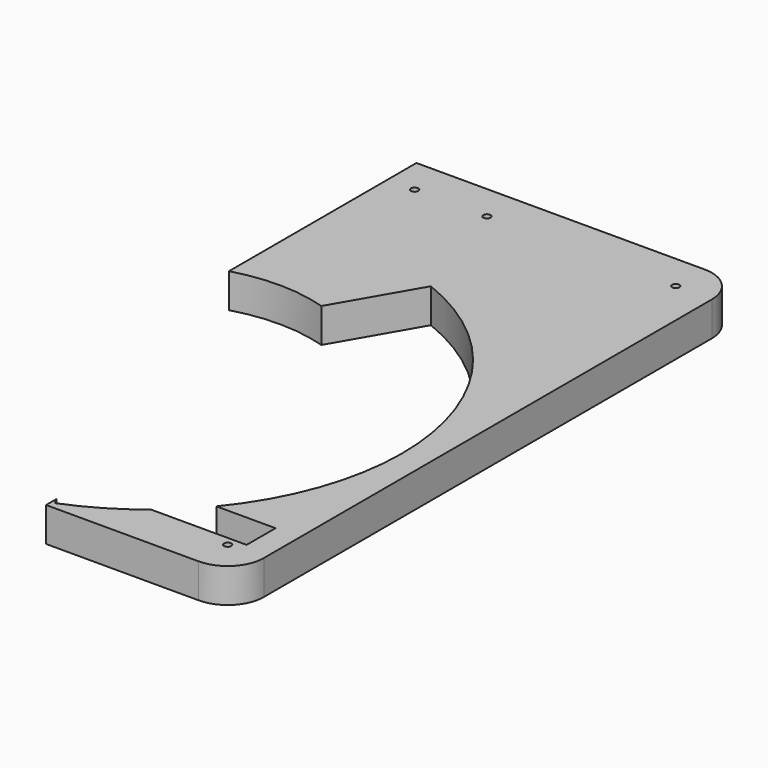
from build123d import *

# Parameters (mm, degrees)
PAD016_DEPTH    = 19
FILLET006_R     = 20
SKETCH023_R     = 2
POCKET014_DEPTH = 19.001
SKETCH026_R     = 2
POCKET016_DEPTH = 19.001
SKETCH047_W     = 56
SKETCH047_H     = 20
POCKET030_DEPTH = 19.001


with BuildPart() as part:
    # Sketch021 → Pad016 (new body)
    with BuildSketch(Plane.XY):
        with BuildLine():
            Line((200, 216.2), (200, 86.458082))
            ThreePointArc((251.554314, 85.993421), (225.811141, 89.996345), (200, 86.458082))
            Line((251.554314, 85.993421), (276.961524, 130))
            ThreePointArc((276.961524, -130), (365, 0), (276.961524, 130))
            Line((276.961524, -130), (275, -126.60254))
            Line((275, -126.60254), (275, -133.8))
            Line((275, -133.8), (379.498932, -133.8))
            Line((379.498932, -133.8), (379.498932, 216.2))
            Line((379.498932, 216.2), (200, 216.2))
        make_face()
    extrude(amount=PAD016_DEPTH)

    # Fillet006
    fillet006_edges = [part.edges().sort_by_distance(p)[0] for p in [
        (379.498932, 216.2, 9.5),
        (379.498932, -133.8, 9.5),
    ]]
    fillet(fillet006_edges, radius=FILLET006_R)

    # Sketch023 (on Face5 of Fillet006) → Pocket014 (cut, through all)
    with BuildSketch(Plane.XY.offset(19)):
        with Locations((215, 196.2)):
            Circle(SKETCH023_R)
    extrude(amount=-POCKET014_DEPTH, mode=Mode.SUBTRACT)

    # Sketch026 (on Face5 of Pocket014) → Pocket016 (cut, through all)
    with BuildSketch(Plane.XY.offset(19)):
        with Locations((254.998932, 196.2)):
            Circle(SKETCH026_R)
        with Locations((359.498932, 196.2)):
            Circle(SKETCH026_R)
        with Locations((359.498932, -113.8)):
            Circle(SKETCH026_R)
    extrude(amount=-POCKET016_DEPTH, mode=Mode.SUBTRACT)

    # Sketch047 (on Face2 of Pocket016) → Pocket030 (cut, through all)
    with BuildSketch(Plane(origin=(0, 0, 0), x_dir=(1, 0, 0), z_dir=(0, 0, -1))):
        with Locations((337.998932, 98.8)):
            Rectangle(SKETCH047_W, SKETCH047_H)
    extrude(amount=-POCKET030_DEPTH, mode=Mode.SUBTRACT)


with BuildPart() as part_1:
    # Body012 placement: moved
    add(part.part.moved(Location((0, 0, -9))))


solid = part_1.part
